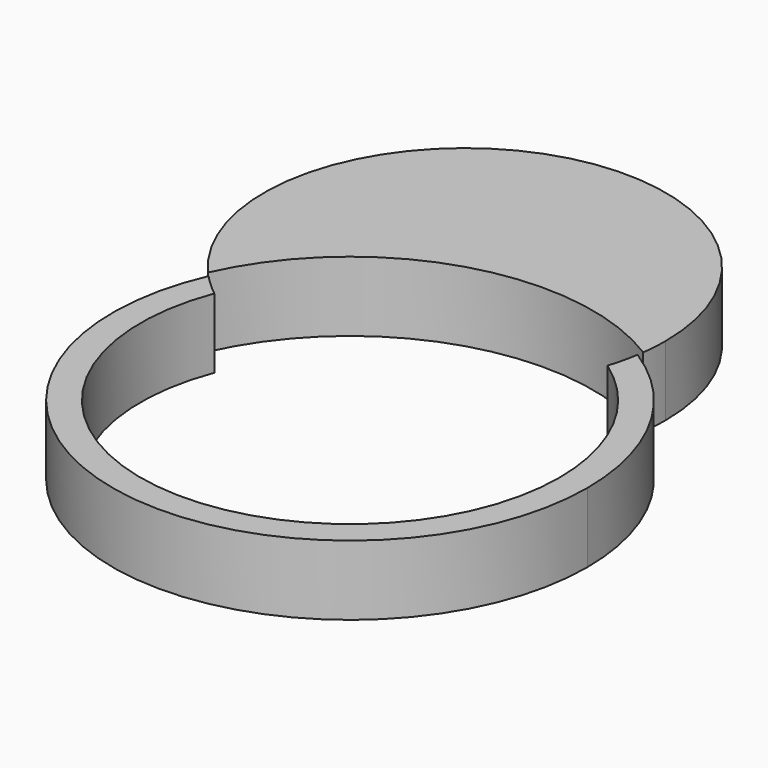
from build123d import *

# Parameters (mm, degrees)
F1_DEPTH = 5


with BuildPart() as f1:
    # F0 (on Top) → F1 (new body)
    with BuildSketch(Plane.XY):
        with BuildLine():
            ThreePointArc((-15.872671, 7.128697), (-5.083628, 16.640815), (9.17919, 14.781829))
            ThreePointArc((9.17919, 14.781829), (9.269637, 15.709367), (9.299828, 16.640815))
            ThreePointArc((9.299828, 16.640815), (-10.167922, 30.095694), (-15.872671, 7.128697))
        make_face()
        with BuildLine():
            ThreePointArc((8.621227, 12.274952), (13.310117, 6.916704), (15, 0))
            ThreePointArc((15, 0), (-2.726202, -14.75018), (-14.009043, 5.361596))
            ThreePointArc((-14.009043, 5.361596), (-14.820571, 6.054231), (-15.578524, 6.805115))
            ThreePointArc((-15.578524, 6.805115), (-3.475996, -16.640837), (17, 0))
            ThreePointArc((17, 0), (14.899219, 8.186163), (9.116087, 14.34911))
            ThreePointArc((9.116087, 14.34911), (8.907147, 13.302848), (8.621227, 12.274952))
        make_face()
    extrude(amount=F1_DEPTH)


solid = f1.part
